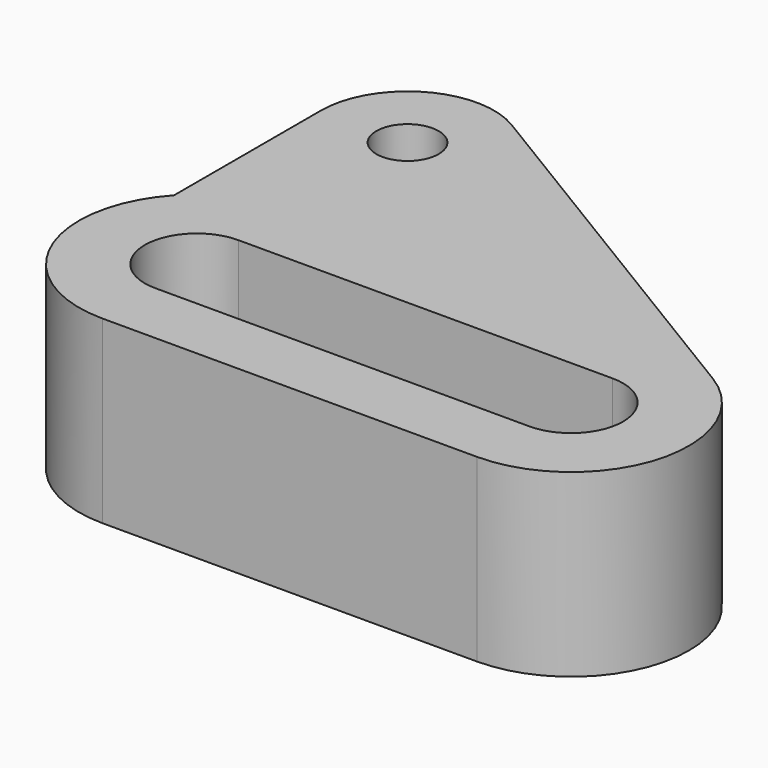
from build123d import *

# Parameters (mm, degrees)
PAD_DEPTH    = 52
SKETCH001_R  = 9
PAD001_DEPTH = 34
PAD002_DEPTH = 22


with BuildPart() as part:
    # Sketch → Pad (new body)
    with BuildSketch(Plane.XY):
        with BuildLine():
            Line((-54, 34), (54, 34))
            ThreePointArc((54, -34), (88, 0), (54, 34))
            Line((54, -34), (-54.000015, -34))
            ThreePointArc((-54, 34), (-88.000015, 8e-06), (-54.000015, -34))
        make_face()
        with BuildLine():
            Line((-54, 15), (54, 15))
            ThreePointArc((54, -15), (69, 0), (54, 15))
            Line((54, -15), (-53.999964, -15))
            ThreePointArc((-54, 15), (-68.999964, -1.8e-05), (-53.999964, -15))
        make_face(mode=Mode.SUBTRACT)
    extrude(amount=PAD_DEPTH)

    # Sketch001 (on Face10 of Pad) → Pad001 (join)
    with BuildSketch(Plane.XY.offset(52)):
        with BuildLine():
            Line((-79, 23.043454), (-79, 76))
            ThreePointArc((-29, 76), (-54, 101), (-79, 76))
            Line((-29, 76), (-29, 49))
            ThreePointArc((-29, 49), (-24.606602, 38.393398), (-14, 34))
            Line((-14, 34), (-14, 23.043454))
            Line((-14, 23.043454), (-79, 23.043454))
        make_face()
        with Locations((-54, 76)):
            Circle(SKETCH001_R, mode=Mode.SUBTRACT)
    extrude(amount=-PAD001_DEPTH)

    # Sketch002 (on Face4 of Pad001) → Pad002 (join)
    with BuildSketch(Plane.XY.offset(52)):
        Polygon((-41.039463, 97.378131), (71.62633, 29.074258), (-41.039463, 29.074258), align=None)
    extrude(amount=-PAD002_DEPTH)


solid = part.part
